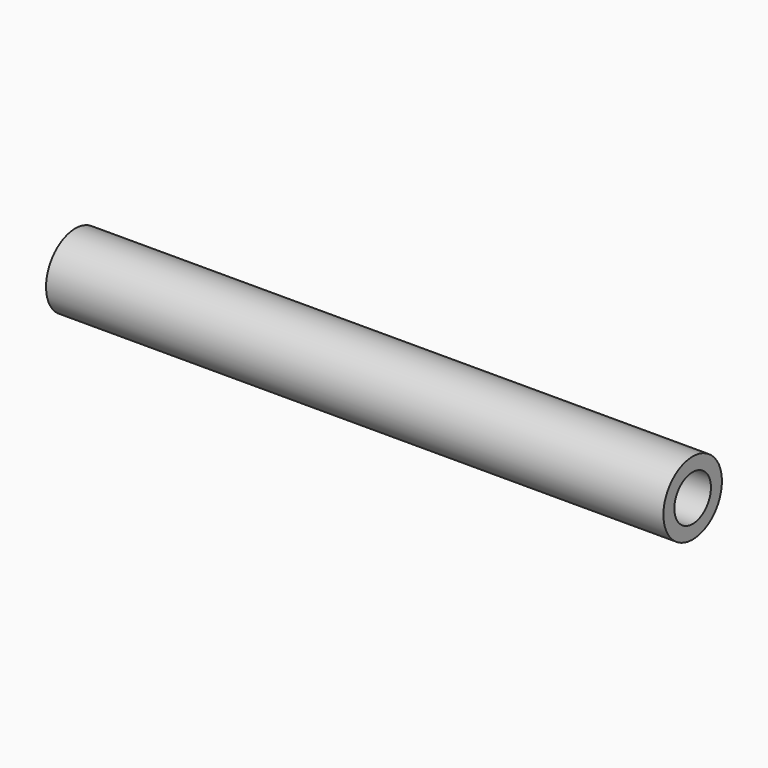
from build123d import *

# Parameters (mm, degrees)
F1_R   = 12.7
F1_R_2 = 7.9375


with BuildPart() as f2:
    # F2: sweep along a path in F0
    with BuildLine(Plane.XZ) as f2_path:
        Line((0, 0), (214.3365585547, 0))
    # F1 (on Right) → F2 (sweep)
    with BuildSketch(Plane.YZ):
        Circle(F1_R)
        Circle(F1_R_2, mode=Mode.SUBTRACT)
    sweep(path=f2_path.line)


solid = f2.part
